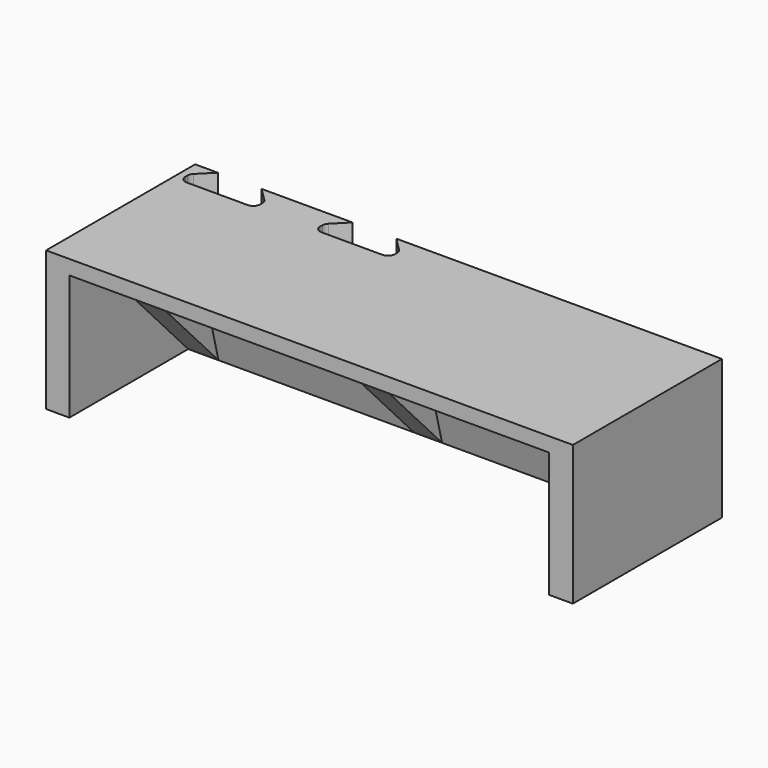
from build123d import *

# Parameters (mm, degrees)
F1_DEPTH = 30
F4_DEPTH = 51.5
F5_DEPTH = 53.5
F6_DEPTH = 45
F7_DEPTH = 3


with BuildPart() as f1:
    # F0 (on Top) → F1 (new body)
    with BuildSketch(Plane.XY):
        with BuildLine():
            Line((92.1, -37.1), (90, -37.1))
            Line((90, -37.1), (70.1, -37.1))
            Line((70.1, -37.1), (55.207107, -37.1))
            Line((55.207107, -37.1), (58.096194, -39.989087))
            ThreePointArc((58.096194, -39.989087), (58.421353, -40.475722), (58.535534, -41.049747))
            Line((58.535534, -41.049747), (58.535534, -41.635534))
            ThreePointArc((58.535534, -41.635534), (58.096194, -42.696194), (57.035534, -43.135534))
            Line((57.035534, -43.135534), (43.964466, -43.135534))
            ThreePointArc((43.964466, -43.135534), (42.903806, -42.696194), (42.464466, -41.635534))
            Line((42.464466, -41.635534), (42.464466, -41.049747))
            ThreePointArc((42.464466, -41.049747), (42.578647, -40.475722), (42.903806, -39.989087))
            Line((42.903806, -39.989087), (45.792893, -37.1))
            Line((45.792893, -37.1), (45, -37.1))
            Line((45, -37.1), (26.284599, -37.1))
            Line((26.284599, -37.1), (29.173687, -39.989087))
            ThreePointArc((29.173687, -39.989087), (29.498846, -40.475722), (29.613026, -41.049747))
            Line((29.613026, -41.049747), (29.613026, -41.635534))
            ThreePointArc((29.613026, -41.635534), (29.173687, -42.696194), (28.113026, -43.135534))
            Line((28.113026, -43.135534), (15.041959, -43.135534))
            ThreePointArc((15.041959, -43.135534), (13.981298, -42.696194), (13.541959, -41.635534))
            Line((13.541959, -41.635534), (13.541959, -41.049747))
            ThreePointArc((13.541959, -41.049747), (13.656139, -40.475722), (13.981298, -39.989087))
            Line((13.981298, -39.989087), (16.870386, -37.1))
            Line((16.870386, -37.1), (12, -37.1))
            Line((12, -37.1), (12, -77.1))
            Line((12, -77.1), (125.1, -77.1))
            Line((125.1, -77.1), (125.1, -37.1))
            Line((125.1, -37.1), (92.1, -37.1))
        make_face()
    extrude(amount=F1_DEPTH)

    # F3 (on offset) → F4 (cut, symmetric)
    with BuildSketch(Plane.YZ.offset(68.5)):
        Polygon((-52.029371, 26.9), (-45.2, 0), (-45.2, 26.9), align=None)
        Polygon((-77.2, 0), (-45.2, 0), (-70.498638, 26.9), (-77.2, 26.9), align=None)
        Polygon((-70.498638, 26.9), (-45.2, 0), (-52.029371, 26.9), align=None)
    extrude(amount=F4_DEPTH, both=True, mode=Mode.SUBTRACT)

    # F3 (on offset) → F5 (join, symmetric)
    with BuildSketch(Plane.YZ.offset(68.5)):
        Polygon((-52.029371, 26.9), (-45.2, 0), (-45.2, 26.9), align=None)
        Polygon((-70.498638, 26.9), (-45.2, 0), (-52.029371, 26.9), align=None)
    extrude(amount=F5_DEPTH, both=True)

    # F3 (on offset) → F6 (cut, symmetric)
    with BuildSketch(Plane.YZ.offset(68.5)):
        Polygon((-70.498638, 26.9), (-45.2, 0), (-52.029371, 26.9), align=None)
    extrude(amount=F6_DEPTH, both=True, mode=Mode.SUBTRACT)

    # F3 (on offset) → F7 (join, symmetric)
    with BuildSketch(Plane.YZ.offset(68.5)):
        Polygon((-52.029371, 26.9), (-45.2, 0), (-45.2, 26.9), align=None)
        Polygon((-70.498638, 26.9), (-45.2, 0), (-52.029371, 26.9), align=None)
    extrude(amount=F7_DEPTH, both=True)


solid = f1.part
